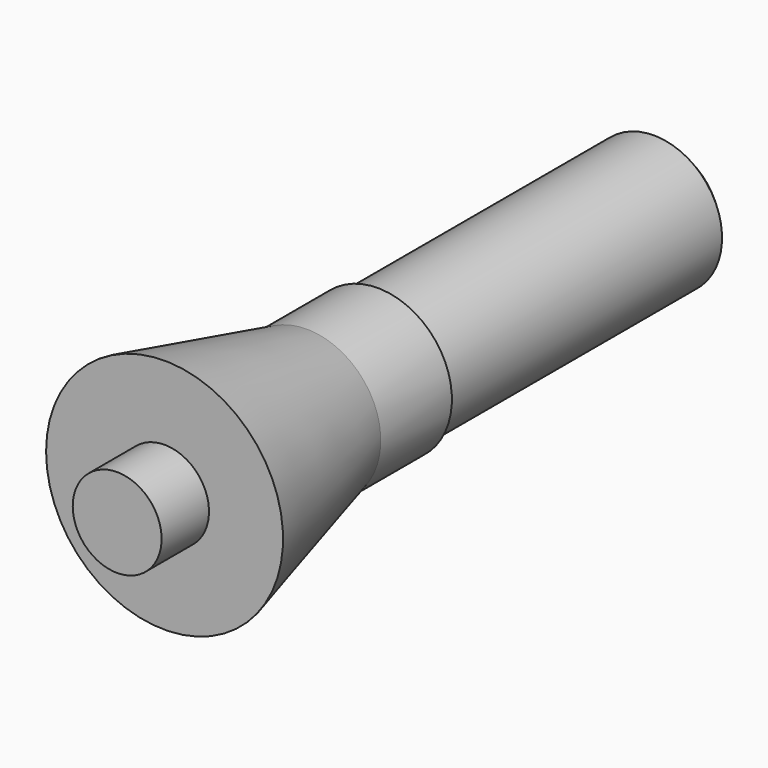
from build123d import *

# Parameters (mm, degrees)
CYLINDER022_R             = 2.3
CYLINDER022_DEPTH         = 12
CHAMFER002_SIZE           = 0.35
CYLINDER021_R             = 2.5
CYLINDER021_DEPTH         = 3
CYLINDER020_R             = 4
CYLINDER020_DEPTH         = 6
CHAMFER001_SIZE2          = 1.5
CHAMFER001_SIZE           = 5.98
CYLINDER019_R             = 1.5
CYLINDER019_DEPTH         = 10
FUSION005_ROLL_ANGLE      = 90
FUSION005_PLACEMENT_ANGLE = 180


with BuildPart() as chamfer002:
    # Cylinder022 → Cylinder022 (new body)
    with BuildSketch(Plane.XY.offset(39)):
        Circle(CYLINDER022_R)
    extrude(amount=CYLINDER022_DEPTH)

    # Chamfer002
    chamfer002_edges = [chamfer002.edges().sort_by_distance(p)[0] for p in [
        (-2.3, 0, 51),
    ]]
    chamfer(chamfer002_edges, length=CHAMFER002_SIZE)


with BuildPart() as cylinder021:
    # Cylinder021 → Cylinder021 (new body)
    with BuildSketch(Plane.XY.offset(36)):
        Circle(CYLINDER021_R)
    extrude(amount=CYLINDER021_DEPTH)


with BuildPart() as fusion003:
    # Cylinder020 → Cylinder020 (new body)
    with BuildSketch(Plane.XY):
        Circle(CYLINDER020_R)
    extrude(amount=CYLINDER020_DEPTH)

    # Chamfer001
    chamfer001_edges = [fusion003.edges().sort_by_distance(p)[0] for p in [
        (-4, 0, 6),
    ]]
    chamfer001_side = fusion003.faces().sort_by_distance((-4, 0, 3))[0]
    chamfer(chamfer001_edges, length=CHAMFER001_SIZE, length2=CHAMFER001_SIZE2, reference=chamfer001_side)


with BuildPart() as fusion003_1:
    # Chamfer001 placement: moved
    add(fusion003.part.moved(Location((0, 0, 30))))

    # Fusion003: union Cylinder021
    add(cylinder021.part)


with BuildPart() as rotor_shaft:
    # Cylinder019 → Cylinder019 (new body)
    with BuildSketch(Plane.XY.offset(28)):
        Circle(CYLINDER019_R)
    extrude(amount=CYLINDER019_DEPTH)

    # Fusion004: union Fusion003
    add(fusion003_1.part)

    # Fusion005: union Chamfer002
    add(chamfer002.part)


with BuildPart() as rotor_shaft_1:
    # Fusion005 roll: moved
    add(rotor_shaft.part.rotate(Axis((0, 0, 0), (1, 0, 0)), FUSION005_ROLL_ANGLE))


with BuildPart() as rotor_shaft_2:
    # Fusion005 placement: moved
    add(rotor_shaft_1.part.moved(Location((0, 20, 0))).rotate(Axis((0, 20, 0), (0, 0, 1)), FUSION005_PLACEMENT_ANGLE))


solid = rotor_shaft_2.part
